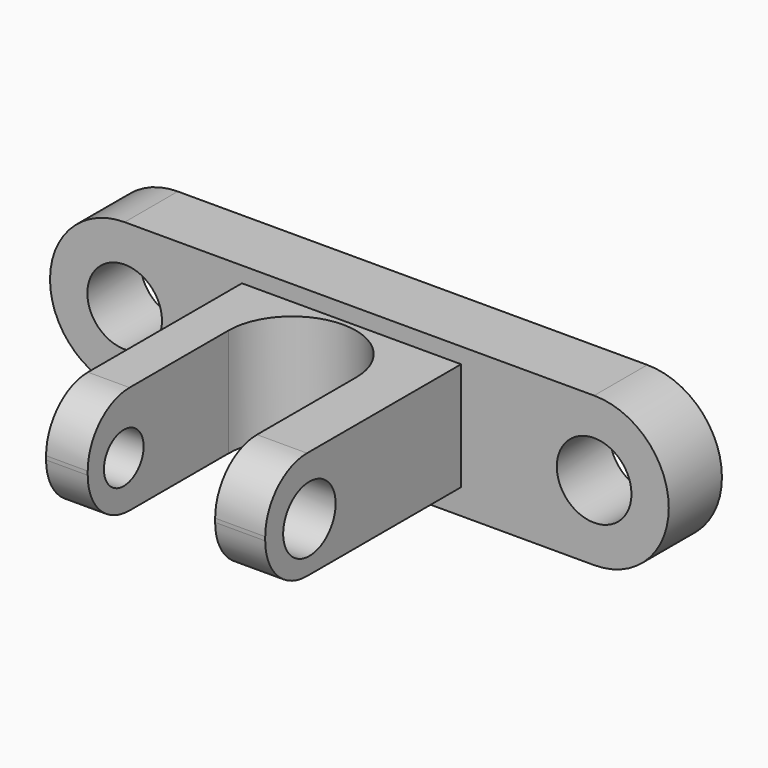
from build123d import *

# Parameters (mm, degrees)
F0_R      = 12.7
F1_DEPTH  = 22.606
F2_W      = 74.5722576976
F2_H      = 22.3488807678
F3_DEPTH  = 83.312
F4_DEPTH  = 5.588
F5_DEPTH  = 8.89
F7_DEPTH  = 127.254
F8_R      = 8.4373748016
F9_DEPTH  = 25.4
F10_R     = 11.1555732281
F11_DEPTH = 25.4
F12_R     = 17.78
F13_R     = 17.78


with BuildPart() as f1:
    # F0 (on Front) → F1 (new body)
    with BuildSketch(Plane.XZ):
        with BuildLine():
            Line((82.5530235944, 25.4), (-77.1982306158, 25.4))
            ThreePointArc((-77.1982306158, 25.4), (-102.5982306158, 0), (-77.1982306158, -25.4))
            Line((-77.1982306158, -25.4), (82.5530235944, -25.4))
            ThreePointArc((82.5530235944, -25.4), (107.9530235944, 0), (82.5530235944, 25.4))
        make_face()
        with Locations((-77.1982306158, 0)):
            Circle(F0_R, mode=Mode.SUBTRACT)
        with Locations((82.5530235944, 0)):
            Circle(F0_R, mode=Mode.SUBTRACT)
    extrude(amount=F1_DEPTH)

    # F2 (on face) → F3 (join)
    with BuildSketch(Plane.XZ.offset(22.606)):
        Rectangle(F2_W, F2_H)
    extrude(amount=F3_DEPTH)

    # F4 (add): a face of the model
    f4_faces = [f1.faces().sort_by_distance(p)[0] for p in [
        (0, -64.262, -11.1744403839),
    ]]
    extrude(f4_faces, amount=F4_DEPTH)

    # F5 (add): a face of the model
    f5_faces = [f1.faces().sort_by_distance(p)[0] for p in [
        (0, -64.262, 11.1744403839),
    ]]
    extrude(f5_faces, amount=F5_DEPTH)

    # F6 (on face) → F7 (cut)
    with BuildSketch(Plane(origin=(0, 0, -16.7624403839), x_dir=(1, 0, 0), z_dir=(0, 0, -1))):
        with BuildLine():
            Line((20.2462481307, 105.918), (-23.1126956642, 105.918))
            Line((-23.1126956642, 105.918), (-23.1126956642, 46.0643023252))
            ThreePointArc((-23.1126956642, 46.0643023252), (-1.4332237667, 24.3848304278), (20.2462481307, 46.0643023252))
            Line((20.2462481307, 46.0643023252), (20.2462481307, 105.918))
        make_face()
    extrude(amount=-F7_DEPTH, mode=Mode.SUBTRACT)

    # F8 (on face) → F9 (cut)
    with BuildSketch(Plane(origin=(-37.2861288488, 0, 0), x_dir=(0, -1, 0), z_dir=(-1, 0, 0))):
        with Locations((90.5945748091, 0)):
            Circle(F8_R)
    extrude(amount=-F9_DEPTH, mode=Mode.SUBTRACT)

    # F10 (on face) → F11 (cut)
    with BuildSketch(Plane.YZ.offset(37.2861288488)):
        with Locations((-87.1303528547, 0)):
            Circle(F10_R)
    extrude(amount=-F11_DEPTH, mode=Mode.SUBTRACT)

    # F12
    f12_edges = [f1.edges().sort_by_distance(p)[0] for p in [
        (-30.199412, -105.918, -16.76244),
        (-30.199412, -105.918, 20.06444),
    ]]
    fillet(f12_edges, radius=F12_R)

    # F13
    f13_edges = [f1.edges().sort_by_distance(p)[0] for p in [
        (28.766188, -105.918, 20.06444),
        (28.766188, -105.918, -16.76244),
    ]]
    fillet(f13_edges, radius=F13_R)


solid = f1.part
